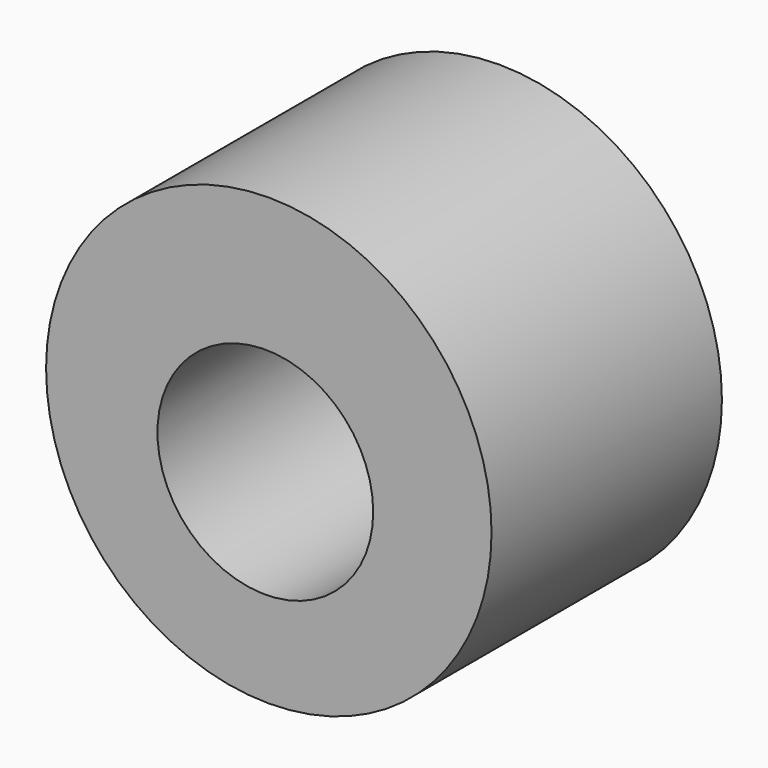
from build123d import *

# Parameters (mm, degrees)
F0_R     = 39.28888
F1_DEPTH = 50.8
F2_R     = 19.028102
F3_DEPTH = 25
F4_DEPTH = 71


with BuildPart() as f1:
    # F0 (on Front) → F1 (new body)
    with BuildSketch(Plane.XZ):
        with Locations((-10.59674, 24.287323)):
            Circle(F0_R)
    extrude(amount=-F1_DEPTH)

    # F2 (on face) → F3 (cut)
    with BuildSketch(Plane.XZ):
        with Locations((-11.212225, 20.733649)):
            Circle(F2_R)
    extrude(amount=F3_DEPTH, mode=Mode.SUBTRACT)

    # F2 (on face) → F4 (cut)
    with BuildSketch(Plane.XZ):
        with Locations((-11.212225, 20.733649)):
            Circle(F2_R)
    extrude(amount=-F4_DEPTH, mode=Mode.SUBTRACT)


solid = f1.part
